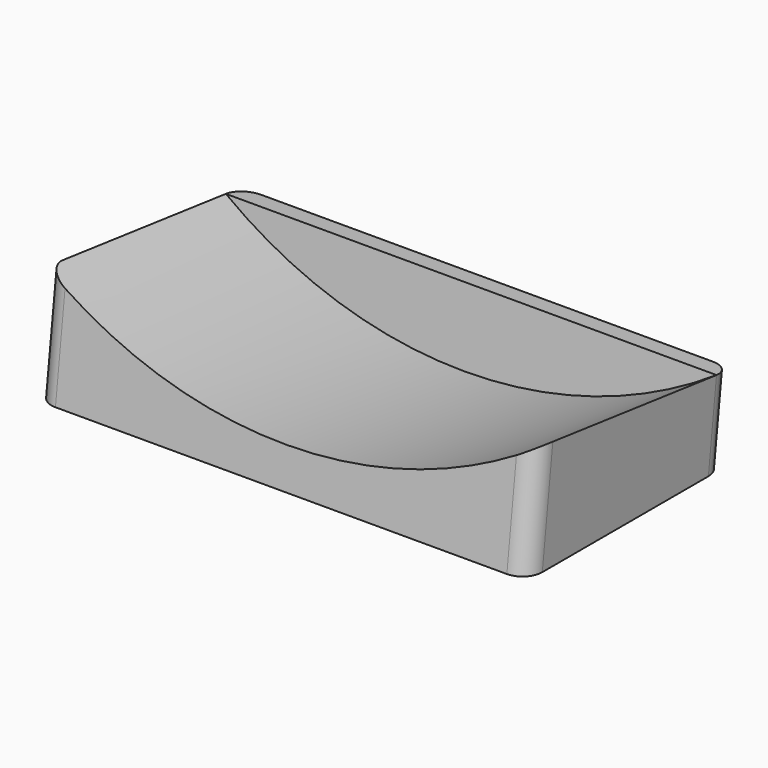
from build123d import *

# Parameters (mm, degrees)
F1_DEPTH      = 25
F1_DEPTH_BACK = 25
F2_R          = 45.5
F3_DEPTH      = 23
F5_DEPTH      = 50.001
F6_R          = 2


with BuildPart() as f1:
    # F0 (on Right) → F1 (new body, two sides)
    with BuildSketch(Plane.YZ) as f1_sk:
        Polygon((3, 25), (0, 0), (25.179357, 0), (28.179357, 25), align=None)
    extrude(amount=F1_DEPTH)
    extrude(f1_sk.sketch, amount=-F1_DEPTH_BACK)

    # F2 (on face) → F3 (cut)
    with BuildSketch(Plane(origin=(0, 0, 0), x_dir=(1, 0, 0), z_dir=(0, -0.992877, 0.119145))):
        with Locations((0, 49.5)):
            Circle(F2_R)
    extrude(amount=-F3_DEPTH, mode=Mode.SUBTRACT)

    # F4 (on face) → F5 (cut, through all)
    with BuildSketch(Plane.YZ.offset(25)):
        Polygon((39.125659, 25), (24.232506, 26.787178), (22.087892, 8.915395), (36.981045, 7.128217), align=None)
    extrude(amount=-F5_DEPTH, mode=Mode.SUBTRACT)

    # F6
    f6_edges = [f1.edges().sort_by_distance(p)[0] for p in [
        (-25, 0.684105, 5.700878),
        (25, 0.684105, 5.700878),
        (25, 25.684744, 4.211563),
        (-25, 25.684744, 4.211563),
    ]]
    fillet(f6_edges, radius=F6_R)


solid = f1.part
